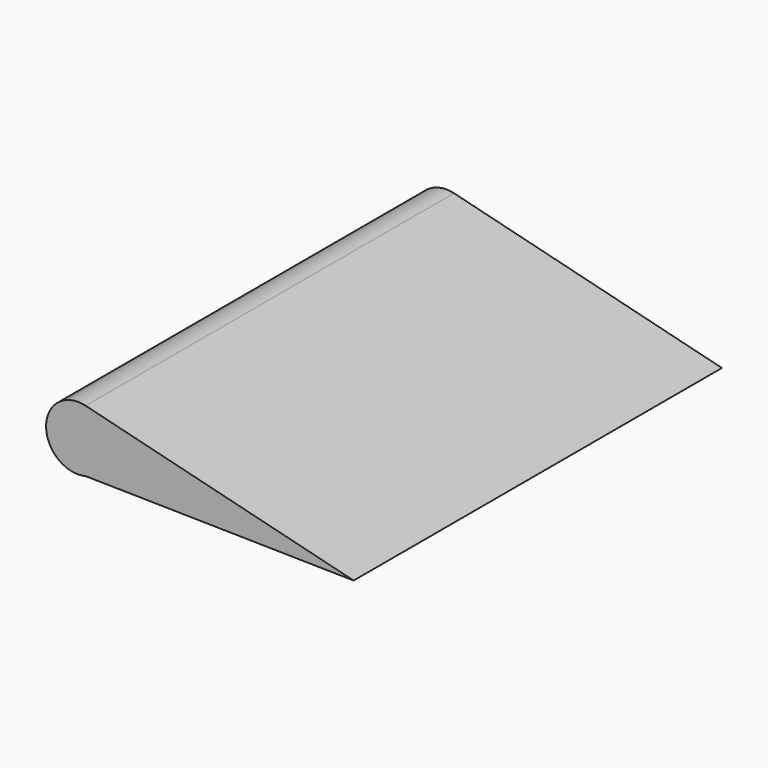
from build123d import *


with BuildPart() as f3:
    # F2 (on offset) → F3 section 0
    with BuildSketch(Plane.XZ.offset(152.4)):
        with BuildLine():
            Line((42.135444, 14.992013), (-46.554144, 37.085503))
            ThreePointArc((-46.554144, 37.085503), (-59.680619, 26.827811), (-46.554144, 16.570119))
            Line((-46.554144, 16.570119), (42.135444, 14.992013))
        make_face()
    # F0 (on Front) → F3 section 1
    with BuildSketch(Plane.XZ):
        with BuildLine():
            Line((42.135444, 14.992013), (-46.554144, 37.085503))
            ThreePointArc((-46.554144, 37.085503), (-59.680619, 26.827811), (-46.554144, 16.570119))
            Line((-46.554144, 16.570119), (42.135444, 14.992013))
        make_face()
    loft()


solid = f3.part
